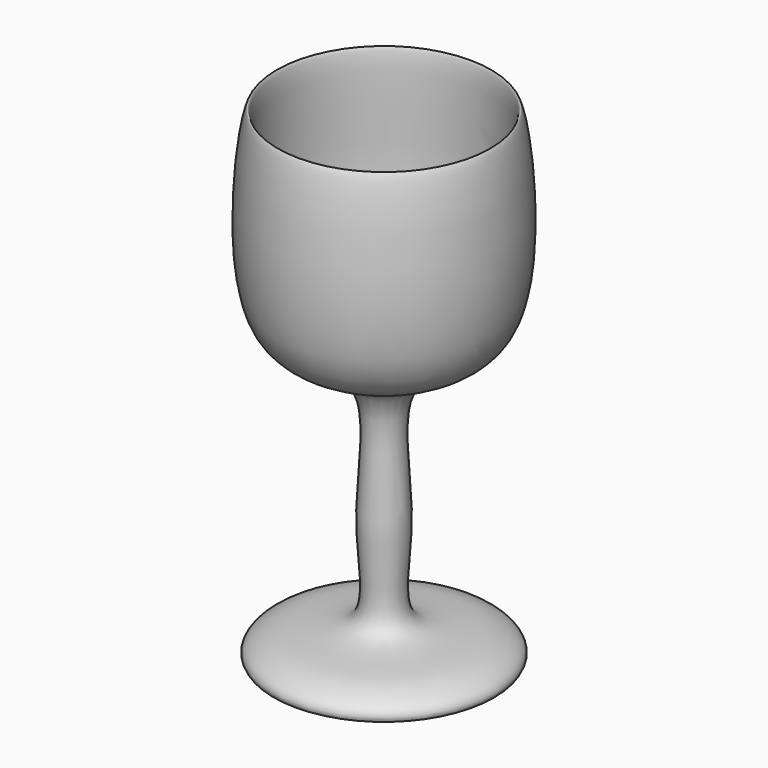
from build123d import *


with BuildPart() as f1:
    # F0 (on Front) → F1 (revolve)
    with BuildSketch(Plane.XZ):
        with BuildLine():
            Line((0, 35.7887355212), (0, 0))
            add(Edge.make_bspline(
                [(15.0215364993, 0), (11.4652397997, 2.2405133675), (9.0658703947, -0.702151968), (4.8350845394, 3.4226751627), (0, 0)],
                knots=[0, 0, 0, 0, 0.4539340601, 1, 1, 1, 1], degree=3))
            add(Edge.make_bspline(
                [(15.0215364993, 0), (15.7491199734, 0.9286406287), (12.1638670905, 4.012182075), (0.6050703101, 2.4208648994), (4.4090042051, 16.6365266856), (-0.0509596239, 36.2560899449), (19.2914657376, 35.1794038871), (14.6928637767, 71.4251736668), (13.7270714328, 59.5455657368), (16.2771913514, 40.5305938799), (6.354507203, 35.821668767), (0.6930085063, 35.7773110887), (0, 35.7887355212)],
                knots=[0.0831577616, 0.0831577616, 0.0831577616, 0.0831577616, 0.1247584698, 0.1891624232, 0.2627058617, 0.3506675812, 0.4264667419, 0.5343416798, 0.5792055725, 0.6730700608, 0.7495034999, 0.760231011, 0.760231011, 0.760231011, 0.760231011], degree=3))
        make_face()
    revolve(axis=Axis((0, 0, 22.0137760043), (0, 0, -1)))


solid = f1.part
